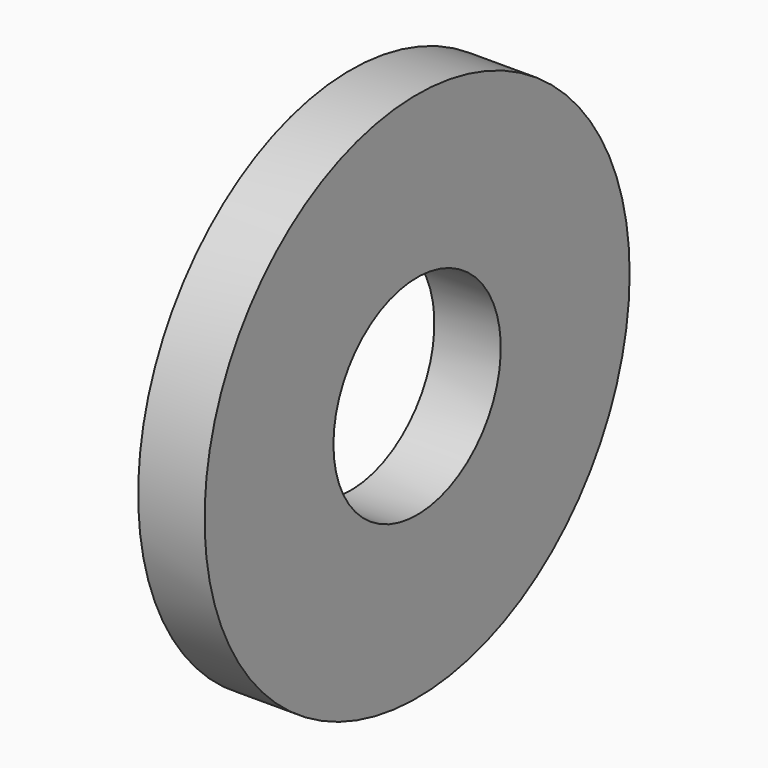
from build123d import *

# Parameters (mm, degrees)
F0_R     = 6.35
F1_DEPTH = 1.5875
F2_D     = 5
F2_DEPTH = 15


with BuildPart() as f1:
    # F0 (on Right) → F1 (new body)
    with BuildSketch(Plane.YZ):
        Circle(F0_R)
    extrude(amount=F1_DEPTH)

    # F2
    with Locations(Plane(origin=(0, 0, 0), x_dir=(0, 1, 0), z_dir=(-1, 0, 0))):
        with Locations((0, 0)):
            Hole(F2_D / 2, depth=F2_DEPTH)


solid = f1.part
